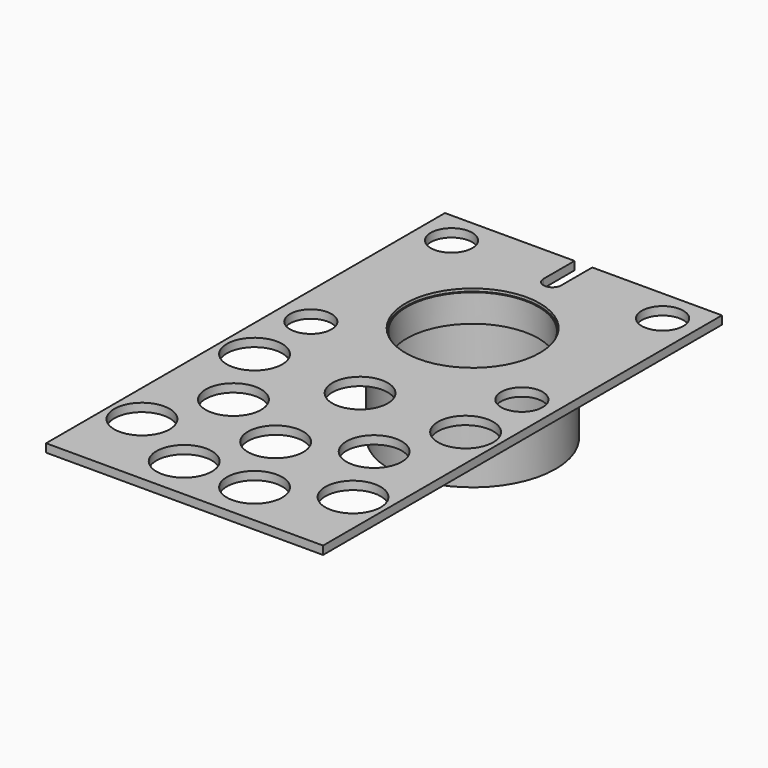
from build123d import *

# Parameters (mm, degrees)
SKETCH_R      = 30
SKETCH_R_2    = 27.725
PAD_DEPTH     = 32
SKETCH001_R   = 10
SKETCH001_R_2 = 7.5
PAD001_DEPTH  = 3
SKETCH002_R   = 24.25
POCKET_DEPTH  = 35.001
SKETCH003_R   = 30
SKETCH003_R_2 = 23.79
PAD002_DEPTH  = 10


with BuildPart() as part:
    # Sketch → Pad (new body)
    with BuildSketch(Plane.XY):
        Circle(SKETCH_R)
        Circle(SKETCH_R_2, mode=Mode.SUBTRACT)
    extrude(amount=PAD_DEPTH)

    # Sketch001 (on Face4 of Pad) → Pad001 (join)
    with BuildSketch(Plane.XY.offset(32)):
        with BuildLine():
            ThreePointArc((-3.2, 36), (0, 32.8), (3.2, 36))
            Line((3.2, 50), (3.2, 36))
            Line((50, 50), (3.2, 50))
            Line((50, -130), (50, 50))
            Line((-50, -130), (50, -130))
            Line((-50, 50), (-50, -130))
            Line((-3.2, 50), (-50, 50))
            Line((-3.2, 50), (-3.2, 36))
        make_face()
        with Locations((0, -50.8)):
            Circle(SKETCH001_R, mode=Mode.SUBTRACT)
        with Locations((-38.1, -50.8)):
            Circle(SKETCH001_R, mode=Mode.SUBTRACT)
        with Locations((38.1, -50.8)):
            Circle(SKETCH001_R, mode=Mode.SUBTRACT)
        with Locations((-25.4, -76.2)):
            Circle(SKETCH001_R, mode=Mode.SUBTRACT)
        with Locations((25.4, -76.2)):
            Circle(SKETCH001_R, mode=Mode.SUBTRACT)
        with Locations((0, -88.9)):
            Circle(SKETCH001_R, mode=Mode.SUBTRACT)
        with Locations((-38.1, -101.6)):
            Circle(SKETCH001_R, mode=Mode.SUBTRACT)
        with Locations((38.1, -101.6)):
            Circle(SKETCH001_R, mode=Mode.SUBTRACT)
        with Locations((-12.7, -114.3)):
            Circle(SKETCH001_R, mode=Mode.SUBTRACT)
        with Locations((12.7, -114.3)):
            Circle(SKETCH001_R, mode=Mode.SUBTRACT)
        with Locations((-38.1, 38.1)):
            Circle(SKETCH001_R_2, mode=Mode.SUBTRACT)
        with Locations((38.1, 38.1)):
            Circle(SKETCH001_R_2, mode=Mode.SUBTRACT)
        with Locations((38.1, -25.4)):
            Circle(SKETCH001_R_2, mode=Mode.SUBTRACT)
        with Locations((-38.1, -25.4)):
            Circle(SKETCH001_R_2, mode=Mode.SUBTRACT)
    extrude(amount=PAD001_DEPTH)

    # Sketch002 → Pocket (cut, through all)
    with BuildSketch(Plane.XY):
        Circle(SKETCH002_R)
    extrude(amount=POCKET_DEPTH, mode=Mode.SUBTRACT)

    # Sketch003 → Pad002 (join)
    with BuildSketch(Plane.XY.offset(34)):
        Circle(SKETCH003_R)
        Circle(SKETCH003_R_2, mode=Mode.SUBTRACT)
    extrude(amount=-PAD002_DEPTH)


solid = part.part
